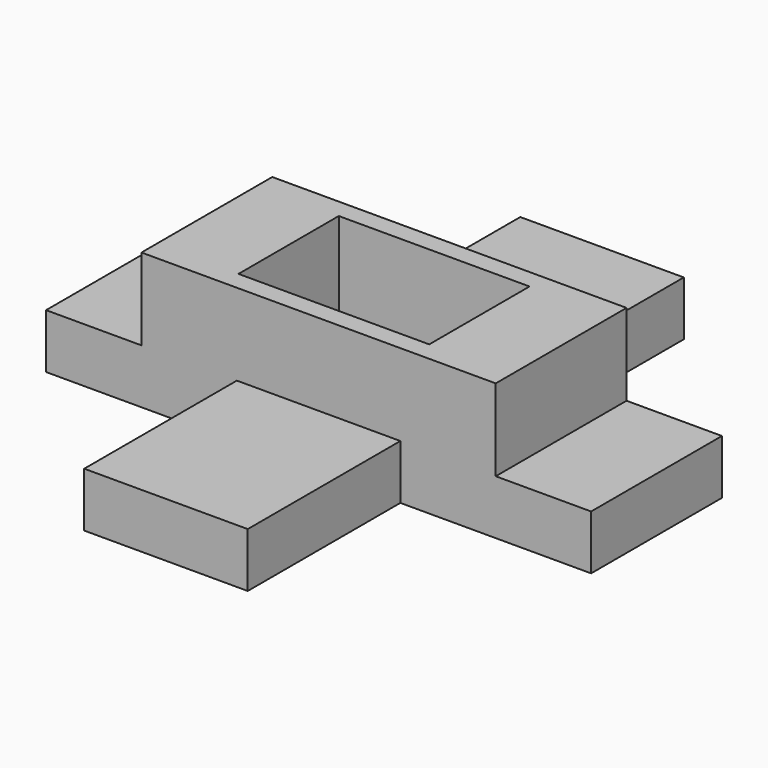
from build123d import *

# Parameters (mm, degrees)
F1_DEPTH = 10
F3_DEPTH = 15
F4_W     = 35
F4_H     = 23
F5_DEPTH = 20


with BuildPart() as f1:
    # F0 (on Top) → F1 (new body)
    with BuildSketch(Plane.XY):
        Polygon((15, 15), (15, 50), (-15, 50), (-15, 15), (-50, 15), (-50, -15), (-15, -15), (-15, -50), (15, -50), (15, -15), (50, -15), (50, 15), align=None)
    extrude(amount=F1_DEPTH)

    # F2 (on face) → F3 (join)
    with BuildSketch(Plane.XY.offset(10)):
        Polygon((32.5, 15), (15, 15), (-15, 15), (-32.5, 15), (-32.5, -15), (-15, -15), (15, -15), (32.5, -15), align=None)
    extrude(amount=F3_DEPTH)

    # F4 (on face) → F5 (cut)
    with BuildSketch(Plane.XY.offset(25)):
        Rectangle(F4_W, F4_H)
    extrude(amount=-F5_DEPTH, mode=Mode.SUBTRACT)


solid = f1.part
